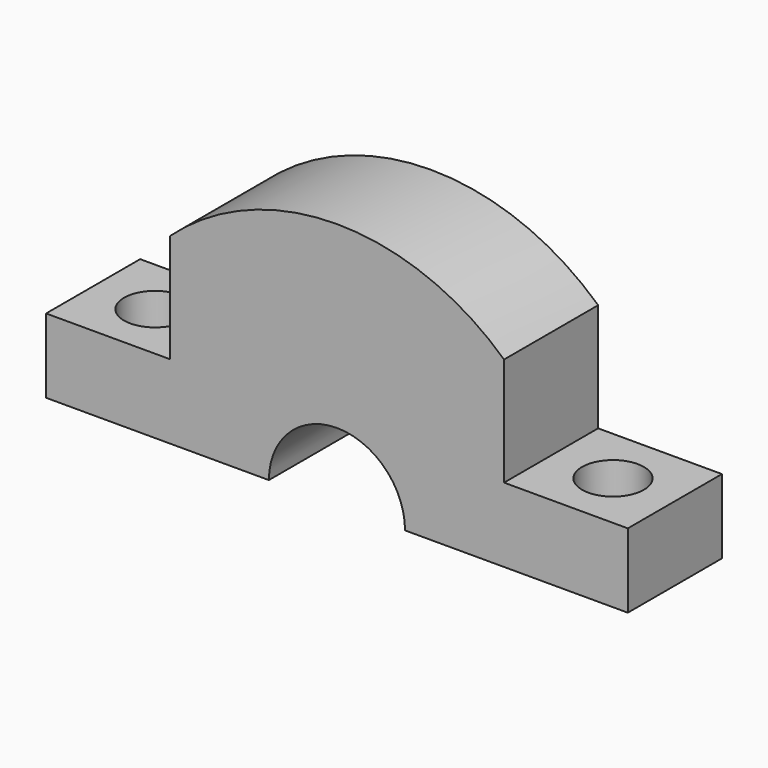
from build123d import *

# Parameters (mm, degrees)
F1_DEPTH = 4.75
F2_R     = 2.5
F3_DEPTH = 6.001


with BuildPart() as f1:
    # F0 (on Front) → F1 (new body, symmetric)
    with BuildSketch(Plane.XZ):
        with BuildLine():
            Line((-23.5, 6), (-23.5, 0))
            Line((-23.5, 0), (-5.5, 0))
            ThreePointArc((-5.5, 0), (0, 5.5), (5.5, 0))
            Line((5.5, 0), (23.5, 0))
            Line((23.5, 0), (23.5, 6))
            Line((23.5, 6), (13.5, 6))
            Line((13.5, 6), (13.5, 14.756355))
            ThreePointArc((13.5, 14.756355), (0, 20), (-13.5, 14.756355))
            Line((-13.5, 14.756355), (-13.5, 6))
            Line((-13.5, 6), (-23.5, 6))
        make_face()
    extrude(amount=F1_DEPTH, both=True)

    # F2 (on face) → F3 (cut, through all)
    with BuildSketch(Plane.XY.offset(6)):
        with Locations((-18.5, 0)):
            Circle(F2_R)
        with Locations((18.5, 0)):
            Circle(F2_R)
    extrude(amount=-F3_DEPTH, mode=Mode.SUBTRACT)


solid = f1.part
